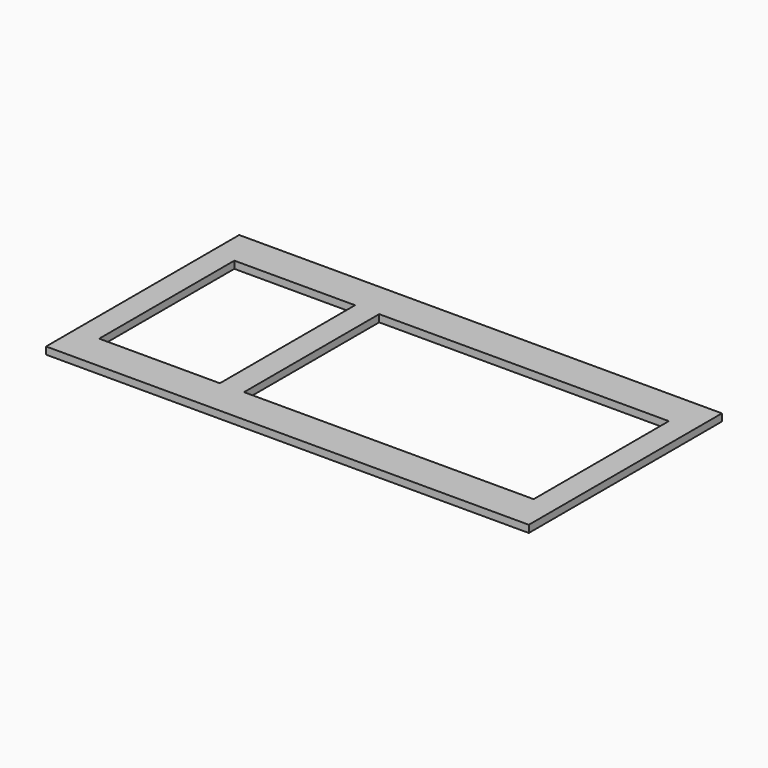
from build123d import *

# Parameters (mm, degrees)
F0_W     = 200
F0_H     = 100
F0_W_2   = 50
F0_H_2   = 70
F0_W_3   = 120
F1_DEPTH = 3


with BuildPart() as f1:
    # F0 (on Top) → F1 (new body)
    with BuildSketch(Plane.XY):
        Rectangle(F0_W, F0_H)
        with Locations((-65, 0)):
            Rectangle(F0_W_2, F0_H_2, mode=Mode.SUBTRACT)
        with Locations((30, 0)):
            Rectangle(F0_W_3, F0_H_2, mode=Mode.SUBTRACT)
    extrude(amount=F1_DEPTH)


solid = f1.part
